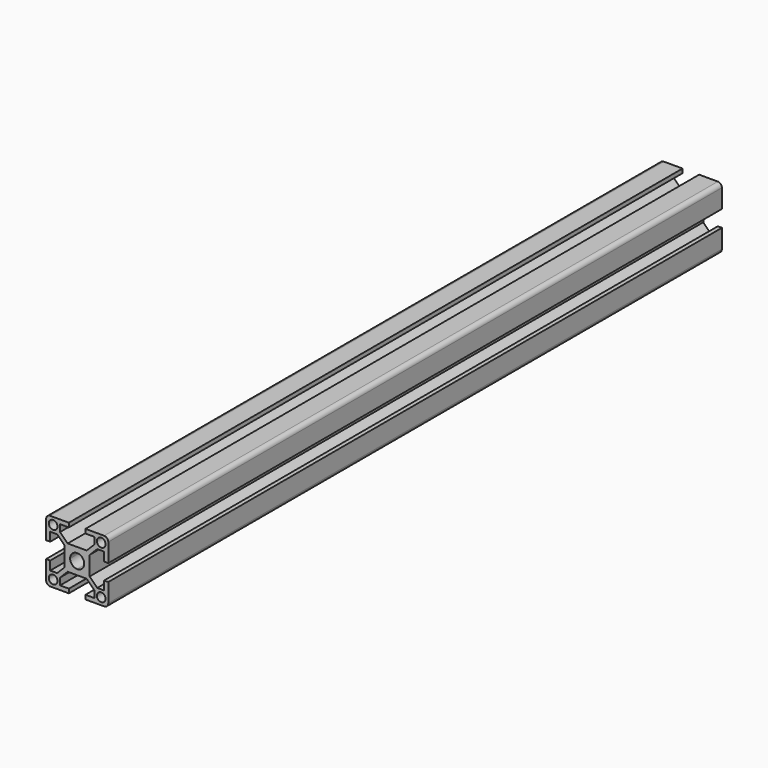
from build123d import *

# Parameters (mm, degrees)
F0_R     = 2.1
F1_DEPTH = 370


with BuildPart() as f1:
    # F0 (on Front) → F1 (new body)
    with BuildSketch(Plane.XZ):
        with BuildLine():
            Line((4.585786, 6), (0, 6))
            Line((0, 6), (-4.585786, 6))
            Line((-4.585786, 6), (-8.25, 9.664214))
            Line((-8.25, 9.664214), (-8.25, 13))
            Line((-8.25, 13), (-4, 13))
            Line((-4, 13), (-4, 15))
            Line((-4, 15), (-13, 15))
            ThreePointArc((-13, 15), (-14.414214, 14.414214), (-15, 13))
            Line((-15, 13), (-15, 4))
            Line((-15, 4), (-13, 4))
            Line((-13, 4), (-13, 8.25))
            Line((-13, 8.25), (-9.664214, 8.25))
            Line((-9.664214, 8.25), (-6, 4.585786))
            Line((-6, 4.585786), (-6, 0))
            Line((-6, 0), (-6, -4.585786))
            Line((-6, -4.585786), (-9.664214, -8.25))
            Line((-9.664214, -8.25), (-13, -8.25))
            Line((-13, -8.25), (-13, -4))
            Line((-13, -4), (-15, -4))
            Line((-15, -4), (-15, -13))
            ThreePointArc((-15, -13), (-14.414214, -14.414214), (-13, -15))
            Line((-13, -15), (-4, -15))
            Line((-4, -15), (-4, -13))
            Line((-4, -13), (-8.25, -13))
            Line((-8.25, -13), (-8.25, -9.664214))
            Line((-8.25, -9.664214), (-4.585786, -6))
            Line((-4.585786, -6), (0, -6))
            Line((0, -6), (4.585786, -6))
            Line((4.585786, -6), (8.25, -9.664214))
            Line((8.25, -9.664214), (8.25, -13))
            Line((8.25, -13), (4, -13))
            Line((4, -13), (4, -15))
            Line((4, -15), (13, -15))
            ThreePointArc((13, -15), (14.414214, -14.414214), (15, -13))
            Line((15, -13), (15, -4))
            Line((15, -4), (13, -4))
            Line((13, -4), (13, -8.25))
            Line((13, -8.25), (9.664214, -8.25))
            Line((9.664214, -8.25), (6, -4.585786))
            Line((6, -4.585786), (6, 0))
            Line((6, 0), (6, 4.585786))
            Line((6, 4.585786), (9.664214, 8.25))
            Line((9.664214, 8.25), (13, 8.25))
            Line((13, 8.25), (13, 4))
            Line((13, 4), (15, 4))
            Line((15, 4), (15, 13))
            ThreePointArc((15, 13), (14.414214, 14.414214), (13, 15))
            Line((13, 15), (4, 15))
            Line((4, 15), (4, 13))
            Line((4, 13), (8.25, 13))
            Line((8.25, 13), (8.25, 9.664214))
            Line((8.25, 9.664214), (4.585786, 6))
        make_face()
        with Locations((-11.6, -11.6)):
            Circle(F0_R, mode=Mode.SUBTRACT)
        with Locations((11.6, -11.6)):
            Circle(F0_R, mode=Mode.SUBTRACT)
        with Locations((-11.6, 11.6)):
            Circle(F0_R, mode=Mode.SUBTRACT)
        with BuildLine():
            ThreePointArc((-3.4, 0), (-2.404163, 2.404163), (0, 3.4))
            ThreePointArc((0, 3.4), (2.404163, 2.404163), (3.4, 0))
            ThreePointArc((3.4, 0), (2.404163, -2.404163), (0, -3.4))
            ThreePointArc((0, -3.4), (-2.404163, -2.404163), (-3.4, 0))
        make_face(mode=Mode.SUBTRACT)
        with Locations((11.6, 11.6)):
            Circle(F0_R, mode=Mode.SUBTRACT)
    extrude(amount=F1_DEPTH)


solid = f1.part
